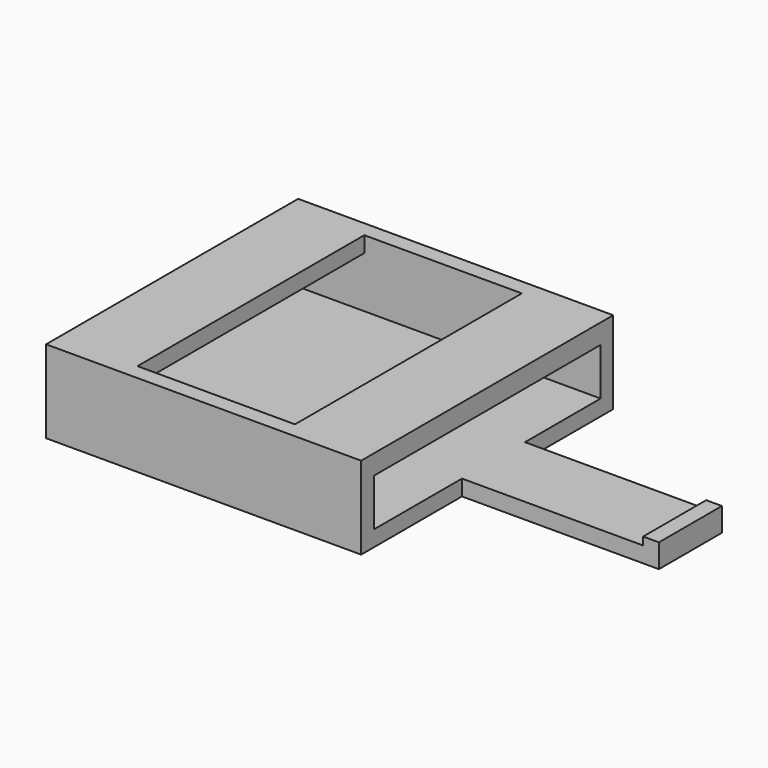
from build123d import *

# Parameters (mm, degrees)
BOX001_W     = 40
BOX001_H     = 36
BOX001_DEPTH = 2
BOX002_W     = 10
BOX002_H     = 38
BOX002_DEPTH = 2.5
BOX003_W     = 40
BOX003_H     = 2
BOX003_DEPTH = 10.5
BOX004_W     = 40
BOX004_H     = 2
BOX004_DEPTH = 10.5
BOX005_W     = 2
BOX005_H     = 10
BOX005_DEPTH = 8.5
BOX006_W     = 63
BOX006_H     = 10
BOX006_DEPTH = 2
BOX007_W     = 2
BOX007_H     = 10
BOX007_DEPTH = 2
BOX_W        = 10
BOX_H        = 38
BOX_DEPTH    = 2


with BuildPart() as cube001:
    # Box001 → Box001 (new body)
    with BuildSketch(Plane(origin=(0, -1, -6), x_dir=(1, 0, 0), z_dir=(0, 0, 1))):
        with Locations((20, 18)):
            Rectangle(BOX001_W, BOX001_H)
    extrude(amount=BOX001_DEPTH)


with BuildPart() as cube002:
    # Box002 → Box002 (new body)
    with BuildSketch(Plane(origin=(30, -2, 2), x_dir=(1, 0, 0), z_dir=(0, 0, 1))):
        with Locations((5, 19)):
            Rectangle(BOX002_W, BOX002_H)
    extrude(amount=BOX002_DEPTH)


with BuildPart() as cube003:
    # Box003 → Box003 (new body)
    with BuildSketch(Plane(origin=(0, -3, -6), x_dir=(1, 0, 0), z_dir=(0, 0, 1))):
        with Locations((20, 1)):
            Rectangle(BOX003_W, BOX003_H)
    extrude(amount=BOX003_DEPTH)


with BuildPart() as cube004:
    # Box004 → Box004 (new body)
    with BuildSketch(Plane(origin=(0, 35, -6), x_dir=(1, 0, 0), z_dir=(0, 0, 1))):
        with Locations((20, 1)):
            Rectangle(BOX004_W, BOX004_H)
    extrude(amount=BOX004_DEPTH)


with BuildPart() as cube005:
    # Box005 → Box005 (new body)
    with BuildSketch(Plane(origin=(0, 12, -4), x_dir=(1, 0, 0), z_dir=(0, 0, 1))):
        with Locations((1, 5)):
            Rectangle(BOX005_W, BOX005_H)
    extrude(amount=BOX005_DEPTH)


with BuildPart() as cube006:
    # Box006 → Box006 (new body)
    with BuildSketch(Plane(origin=(2, 13, -6), x_dir=(1, 0, 0), z_dir=(0, 0, 1))):
        with Locations((31.5, 5)):
            Rectangle(BOX006_W, BOX006_H)
    extrude(amount=BOX006_DEPTH)


with BuildPart() as cube007:
    # Box007 → Box007 (new body)
    with BuildSketch(Plane(origin=(63, 13, -5), x_dir=(1, 0, 0), z_dir=(0, 0, 1))):
        with Locations((1, 5)):
            Rectangle(BOX007_W, BOX007_H)
    extrude(amount=BOX007_DEPTH)


with BuildPart() as fusion:
    # Box → Box (new body)
    with BuildSketch(Plane(origin=(0, -2, 2.5), x_dir=(1, 0, 0), z_dir=(0, 0, 1))):
        with Locations((5, 19)):
            Rectangle(BOX_W, BOX_H)
    extrude(amount=BOX_DEPTH)

    # Fusion: union Cube001, Cube002, Cube003, Cube004, Cube005, Cube006, Cube007
    add(cube001.part)
    add(cube002.part)
    add(cube003.part)
    add(cube004.part)
    add(cube005.part)
    add(cube006.part)
    add(cube007.part)


solid = fusion.part
